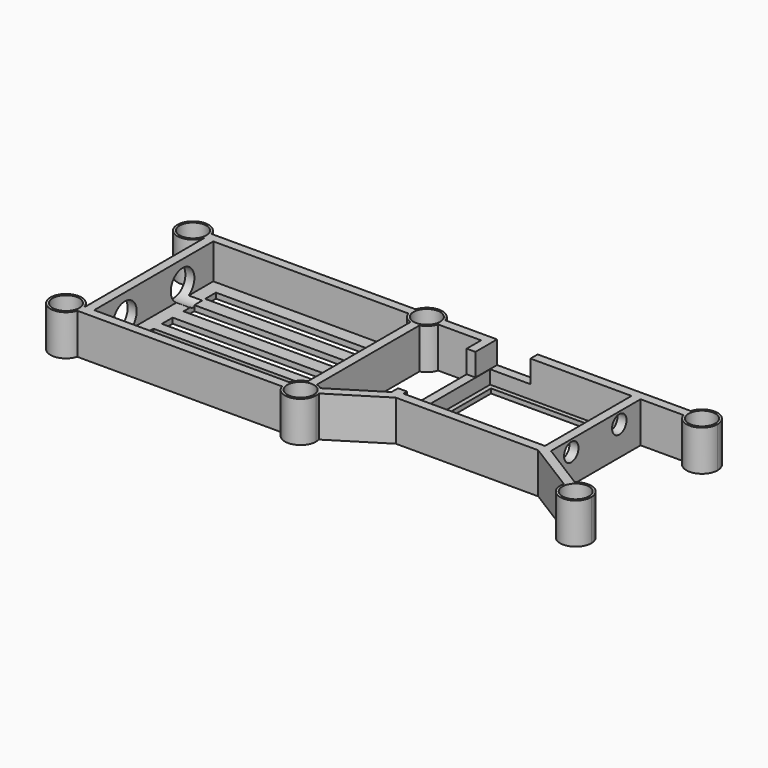
from build123d import *

# Parameters (mm, degrees)
F0_W      = 31.35
F0_H      = 24
F0_W_2    = 2
F0_H_2    = 33
F0_R      = 2.95
F0_R_2    = 1.5
F1_DEPTH  = 9
F2_DEPTH  = 1
F3_W      = 29.35
F3_H      = 22
F4_DEPTH  = 25
F5_DEPTH  = 1.2
F6_W      = 39.55
F6_H      = 3
F7_DEPTH  = 25
F8_R      = 2
F9_DEPTH  = 4
F10_R     = 3.275
F11_DEPTH = 5
F12_DEPTH = 4
F13_DEPTH = 9
F14_R     = 2.95
F15_DEPTH = 8
F16_DEPTH = 25
F17_DEPTH = 25
F18_DEPTH = 25
F19_DEPTH = 25
F20_DEPTH = 25
F21_W     = 9
F21_H     = 5
F22_DEPTH = 25
F23_W     = 19
F23_H     = 5
F24_DEPTH = 3


with BuildPart() as f1:
    # F0 (on Top) → F1 (new body)
    with BuildSketch(Plane.XY):
        Polygon((46.9285540462, 21.1954970509), (11.5785540462, 21.1954970509), (11.5785540462, 19.1954970509), (11.5785540462, -5.625900565), (11.5785540462, -6.8045029491), (13.4680009932, -6.8045029491), (45.0391070991, -6.8045029491), (46.9285540462, -6.8045029491), (46.9285540462, -5.625900565), (46.9285540462, 19.1954970509), align=None)
        with Locations((29.2535540462, 7.1954970509)):
            Rectangle(F0_W, F0_H, mode=Mode.SUBTRACT)
        with BuildLine():
            Line((-4.5483393501, -13.8045029491), (-47.7964459538, -13.8045029491))
            Line((-47.7964459538, -13.8045029491), (-49.7964459538, -13.8045029491))
            Line((-49.7964459538, -13.8045029491), (-49.9445525576, -13.8045029491))
            ThreePointArc((-49.9445525576, -13.8045029491), (-49.833673458, -14.2990488053), (-49.7964459538, -14.8045029491))
            ThreePointArc((-49.7964459538, -14.8045029491), (-49.833673458, -15.309957093), (-49.9445525576, -15.8045029491))
            Line((-49.9445525576, -15.8045029491), (-4.5483393501, -15.8045029491))
            ThreePointArc((-4.5483393501, -15.8045029491), (-4.6964459538, -14.8045029491), (-4.5483393501, -13.8045029491))
        make_face()
        with BuildLine():
            ThreePointArc((-4.5483393501, 19.1954970509), (-4.6964459538, 20.1954970509), (-4.5483393501, 21.1954970509))
            Line((-4.5483393501, 21.1954970509), (-49.7964459538, 21.1954970509))
            ThreePointArc((-49.7964459538, 21.1954970509), (-49.6855668542, 20.7009511947), (-49.6483393501, 20.1954970509))
            ThreePointArc((-49.6483393501, 20.1954970509), (-49.6855668542, 19.690042907), (-49.7964459538, 19.1954970509))
            Line((-49.7964459538, 19.1954970509), (-47.7964459538, 19.1954970509))
            Line((-47.7964459538, 19.1954970509), (-4.5483393501, 19.1954970509))
        make_face()
        with Locations((-48.7964459538, 2.6954970509)):
            Rectangle(F0_W_2, F0_H_2)
        with BuildLine():
            Line((-0.2464459538, -11.5026095529), (-0.2464459538, 16.8936036547))
            ThreePointArc((-0.2464459538, 16.8936036547), (-1.2464459538, 16.7454970509), (-2.2464459538, 16.8936036547))
            Line((-2.2464459538, 16.8936036547), (-2.2464459538, -11.5026095529))
            ThreePointArc((-2.2464459538, -11.5026095529), (-1.2464459538, -11.3545029491), (-0.2464459538, -11.5026095529))
        make_face()
        with BuildLine():
            ThreePointArc((63.2035540462, 20.1954970509), (60.25900819, 23.6082695467), (56.4516606499, 21.1954970509))
            ThreePointArc((56.4516606499, 21.1954970509), (56.3035540462, 20.1954970509), (56.4516606499, 19.1954970509))
            ThreePointArc((56.4516606499, 19.1954970509), (60.25900819, 16.782724555), (63.2035540462, 20.1954970509))
        make_face()
        with Locations((59.7535540462, 20.1954970509)):
            Circle(F0_R, mode=Mode.SUBTRACT)
        with BuildLine():
            ThreePointArc((63.2035540462, -14.8045029491), (61.1788860259, -11.6626995263), (57.4812765114, -12.2084954751))
            ThreePointArc((57.4812765114, -12.2084954751), (56.8263582026, -12.9785718186), (56.4227657111, -13.9054206018))
            ThreePointArc((56.4227657111, -13.9054206018), (59.3000784436, -18.2245701821), (63.2035540462, -14.8045029491))
        make_face()
        with Locations((59.7535540462, -14.8045029491)):
            Circle(F0_R, mode=Mode.SUBTRACT)
        with Locations((59.7535540462, 20.1954970509)):
            Circle(F0_R)
        with Locations((59.7535540462, 20.1954970509)):
            Circle(F0_R_2, mode=Mode.SUBTRACT)
        with Locations((59.7535540462, -14.8045029491)):
            Circle(F0_R)
        with Locations((59.7535540462, -14.8045029491)):
            Circle(F0_R_2, mode=Mode.SUBTRACT)
        with BuildLine():
            Line((11.5785540462, -5.625900565), (1.0258315809, -12.2084954751))
            ThreePointArc((1.0258315809, -12.2084954751), (1.6807498897, -12.9785718186), (2.0843423812, -13.9054206018))
            Line((2.0843423812, -13.9054206018), (13.4680009932, -6.8045029491))
            Line((13.4680009932, -6.8045029491), (11.5785540462, -6.8045029491))
            Line((11.5785540462, -6.8045029491), (11.5785540462, -5.625900565))
        make_face()
        with BuildLine():
            Line((57.4812765114, -12.2084954751), (46.9285540462, -5.625900565))
            Line((46.9285540462, -5.625900565), (46.9285540462, -6.8045029491))
            Line((46.9285540462, -6.8045029491), (45.0391070991, -6.8045029491))
            Line((45.0391070991, -6.8045029491), (56.4227657111, -13.9054206018))
            ThreePointArc((56.4227657111, -13.9054206018), (56.8263582026, -12.9785718186), (57.4812765114, -12.2084954751))
        make_face()
        with BuildLine():
            Line((11.5785540462, 21.1954970509), (2.0554474424, 21.1954970509))
            ThreePointArc((2.0554474424, 21.1954970509), (2.166326542, 20.7009511947), (2.2035540462, 20.1954970509))
            ThreePointArc((2.2035540462, 20.1954970509), (2.166326542, 19.690042907), (2.0554474424, 19.1954970509))
            Line((2.0554474424, 19.1954970509), (11.5785540462, 19.1954970509))
            Line((11.5785540462, 19.1954970509), (11.5785540462, 21.1954970509))
        make_face()
        with BuildLine():
            Line((56.4516606499, 21.1954970509), (46.9285540462, 21.1954970509))
            Line((46.9285540462, 21.1954970509), (46.9285540462, 19.1954970509))
            Line((46.9285540462, 19.1954970509), (56.4516606499, 19.1954970509))
            ThreePointArc((56.4516606499, 19.1954970509), (56.3035540462, 20.1954970509), (56.4516606499, 21.1954970509))
        make_face()
        with BuildLine():
            Line((-51.9803053613, 21.1954970509), (-50.3230015328, 21.1954970509))
            ThreePointArc((-50.3230015328, 21.1954970509), (-56.0483393501, 20.1954970509), (-50.3230015328, 19.1954970509))
            Line((-50.3230015328, 19.1954970509), (-51.9803053613, 19.1954970509))
            ThreePointArc((-51.9803053613, 19.1954970509), (-54.0983393501, 19.0774630621), (-54.2163733388, 21.1954970509))
            ThreePointArc((-54.2163733388, 21.1954970509), (-53.0983393501, 21.6954970509), (-51.9803053613, 21.1954970509))
        make_face()
        with BuildLine():
            Line((-52.1284119651, -13.8045029491), (-50.4711081366, -13.8045029491))
            ThreePointArc((-50.4711081366, -13.8045029491), (-56.1964459538, -14.8045029491), (-50.4711081366, -15.8045029491))
            Line((-50.4711081366, -15.8045029491), (-52.1284119651, -15.8045029491))
            ThreePointArc((-52.1284119651, -15.8045029491), (-54.7464459538, -14.8045029491), (-52.1284119651, -13.8045029491))
        make_face()
        with BuildLine():
            ThreePointArc((1.7035540462, -14.8045029491), (1.1673166691, -13.1085518885), (-0.2464459538, -12.0291651318))
            Line((-0.2464459538, -12.0291651318), (-0.2464459538, -13.6864689604))
            ThreePointArc((-0.2464459538, -13.6864689604), (0.1228604399, -14.1921305134), (0.2535540462, -14.8045029491))
            ThreePointArc((0.2535540462, -14.8045029491), (-0.7112128192, -16.2057614876), (-2.3644799426, -15.8045029491))
            Line((-2.3644799426, -15.8045029491), (-4.0217837711, -15.8045029491))
            ThreePointArc((-4.0217837711, -15.8045029491), (-0.7388765305, -17.7105093635), (1.7035540462, -14.8045029491))
        make_face()
        with BuildLine():
            ThreePointArc((-2.3644799426, 21.1954970509), (-0.7112128192, 21.5967555893), (0.2535540462, 20.1954970509))
            ThreePointArc((0.2535540462, 20.1954970509), (0.1228604399, 19.5831246152), (-0.2464459538, 19.0774630621))
            Line((-0.2464459538, 19.0774630621), (-0.2464459538, 17.4201592336))
            ThreePointArc((-0.2464459538, 17.4201592336), (1.1673166691, 18.4995459903), (1.7035540462, 20.1954970509))
            ThreePointArc((1.7035540462, 20.1954970509), (-0.7388765305, 23.1015034653), (-4.0217837711, 21.1954970509))
            Line((-4.0217837711, 21.1954970509), (-2.3644799426, 21.1954970509))
        make_face()
        with BuildLine():
            Line((-50.3230015328, 21.1954970509), (-49.7964459538, 21.1954970509))
            ThreePointArc((-49.7964459538, 21.1954970509), (-56.5483393501, 20.1954970509), (-49.7964459538, 19.1954970509))
            Line((-49.7964459538, 19.1954970509), (-50.3230015328, 19.1954970509))
            ThreePointArc((-50.3230015328, 19.1954970509), (-56.0483393501, 20.1954970509), (-50.3230015328, 21.1954970509))
        make_face()
        with BuildLine():
            Line((-50.4711081366, -13.8045029491), (-49.9445525576, -13.8045029491))
            ThreePointArc((-49.9445525576, -13.8045029491), (-56.6964459538, -14.8045029491), (-49.9445525576, -15.8045029491))
            Line((-49.9445525576, -15.8045029491), (-50.4711081366, -15.8045029491))
            ThreePointArc((-50.4711081366, -15.8045029491), (-56.1964459538, -14.8045029491), (-50.4711081366, -13.8045029491))
        make_face()
        with Locations((59.7535540462, -14.8045029491)):
            Circle(F0_R_2)
        with Locations((59.7535540462, 20.1954970509)):
            Circle(F0_R_2)
        with BuildLine():
            ThreePointArc((-51.7464459538, -14.8045029491), (-51.8451874154, -14.2692698145), (-52.1284119651, -13.8045029491))
            ThreePointArc((-52.1284119651, -13.8045029491), (-54.7464459538, -14.8045029491), (-52.1284119651, -15.8045029491))
            ThreePointArc((-52.1284119651, -15.8045029491), (-51.8451874154, -15.3397360838), (-51.7464459538, -14.8045029491))
        make_face()
        with BuildLine():
            ThreePointArc((1.0258315809, -12.2084954751), (0.427327866, -11.7877196954), (-0.2464459538, -11.5026095529))
            Line((-0.2464459538, -11.5026095529), (-0.2464459538, -12.0291651318))
            ThreePointArc((-0.2464459538, -12.0291651318), (1.1673166691, -13.1085518885), (1.7035540462, -14.8045029491))
            ThreePointArc((1.7035540462, -14.8045029491), (-0.7388765305, -17.7105093635), (-4.0217837711, -15.8045029491))
            Line((-4.0217837711, -15.8045029491), (-4.5483393501, -15.8045029491))
            ThreePointArc((-4.5483393501, -15.8045029491), (-0.74099181, -18.217275445), (2.2035540462, -14.8045029491))
            ThreePointArc((2.2035540462, -14.8045029491), (2.1736212791, -14.3510273466), (2.0843423812, -13.9054206018))
            ThreePointArc((2.0843423812, -13.9054206018), (1.6807498897, -12.9785718186), (1.0258315809, -12.2084954751))
        make_face()
        with BuildLine():
            Line((-4.5483393501, 21.1954970509), (-4.0217837711, 21.1954970509))
            ThreePointArc((-4.0217837711, 21.1954970509), (-0.7388765305, 23.1015034653), (1.7035540462, 20.1954970509))
            ThreePointArc((1.7035540462, 20.1954970509), (1.1673166691, 18.4995459903), (-0.2464459538, 17.4201592336))
            Line((-0.2464459538, 17.4201592336), (-0.2464459538, 16.8936036547))
            ThreePointArc((-0.2464459538, 16.8936036547), (1.1930724412, 17.7559786558), (2.0554474424, 19.1954970509))
            ThreePointArc((2.0554474424, 19.1954970509), (2.166326542, 19.690042907), (2.2035540462, 20.1954970509))
            ThreePointArc((2.2035540462, 20.1954970509), (2.166326542, 20.7009511947), (2.0554474424, 21.1954970509))
            ThreePointArc((2.0554474424, 21.1954970509), (-1.2464459538, 23.6454970509), (-4.5483393501, 21.1954970509))
        make_face()
        with BuildLine():
            ThreePointArc((-51.5983393501, 20.1954970509), (-51.6970808116, 20.7307301855), (-51.9803053613, 21.1954970509))
            Line((-51.9803053613, 21.1954970509), (-54.2163733388, 21.1954970509))
            ThreePointArc((-54.2163733388, 21.1954970509), (-54.0983393501, 19.0774630621), (-51.9803053613, 19.1954970509))
            ThreePointArc((-51.9803053613, 19.1954970509), (-51.6970808116, 19.6602639162), (-51.5983393501, 20.1954970509))
        make_face()
        with BuildLine():
            Line((-0.2464459538, -15.8045029491), (-0.2464459538, -13.6864689604))
            ThreePointArc((-0.2464459538, -13.6864689604), (-1.2464459538, -13.3045029491), (-2.2464459538, -13.6864689604))
            ThreePointArc((-2.2464459538, -13.6864689604), (-2.3071061256, -13.7438427773), (-2.3644799426, -13.8045029491))
            ThreePointArc((-2.3644799426, -13.8045029491), (-2.7464459538, -14.8045029491), (-2.3644799426, -15.8045029491))
            Line((-2.3644799426, -15.8045029491), (-0.2464459538, -15.8045029491))
        make_face()
        with BuildLine():
            Line((-0.2464459538, 21.1954970509), (-2.3644799426, 21.1954970509))
            ThreePointArc((-2.3644799426, 21.1954970509), (-2.7464459538, 20.1954970509), (-2.3644799426, 19.1954970509))
            Line((-2.3644799426, 19.1954970509), (-2.2464459538, 19.1954970509))
            Line((-2.2464459538, 19.1954970509), (-2.2464459538, 19.0774630621))
            ThreePointArc((-2.2464459538, 19.0774630621), (-1.2464459538, 18.6954970509), (-0.2464459538, 19.0774630621))
            Line((-0.2464459538, 19.0774630621), (-0.2464459538, 21.1954970509))
        make_face()
        with BuildLine():
            ThreePointArc((-50.1483393501, 20.1954970509), (-50.1923329357, 20.7030664742), (-50.3230015328, 21.1954970509))
            Line((-50.3230015328, 21.1954970509), (-51.9803053613, 21.1954970509))
            ThreePointArc((-51.9803053613, 21.1954970509), (-51.6970808116, 20.7307301855), (-51.5983393501, 20.1954970509))
            ThreePointArc((-51.5983393501, 20.1954970509), (-51.6970808116, 19.6602639162), (-51.9803053613, 19.1954970509))
            Line((-51.9803053613, 19.1954970509), (-50.3230015328, 19.1954970509))
            ThreePointArc((-50.3230015328, 19.1954970509), (-50.1923329357, 19.6879276275), (-50.1483393501, 20.1954970509))
        make_face()
        with BuildLine():
            ThreePointArc((-50.2964459538, -14.8045029491), (-50.3404395395, -14.2969335258), (-50.4711081366, -13.8045029491))
            Line((-50.4711081366, -13.8045029491), (-52.1284119651, -13.8045029491))
            ThreePointArc((-52.1284119651, -13.8045029491), (-51.8451874154, -14.2692698145), (-51.7464459538, -14.8045029491))
            ThreePointArc((-51.7464459538, -14.8045029491), (-51.8451874154, -15.3397360838), (-52.1284119651, -15.8045029491))
            Line((-52.1284119651, -15.8045029491), (-50.4711081366, -15.8045029491))
            ThreePointArc((-50.4711081366, -15.8045029491), (-50.3404395395, -15.3120723725), (-50.2964459538, -14.8045029491))
        make_face()
        with BuildLine():
            Line((-0.2464459538, -13.6864689604), (-0.2464459538, -12.0291651318))
            ThreePointArc((-0.2464459538, -12.0291651318), (-1.2464459538, -11.8545029491), (-2.2464459538, -12.0291651318))
            Line((-2.2464459538, -12.0291651318), (-2.2464459538, -13.6864689604))
            ThreePointArc((-2.2464459538, -13.6864689604), (-1.2464459538, -13.3045029491), (-0.2464459538, -13.6864689604))
        make_face()
        with BuildLine():
            Line((-2.3644799426, -13.8045029491), (-4.0217837711, -13.8045029491))
            ThreePointArc((-4.0217837711, -13.8045029491), (-4.1964459538, -14.8045029491), (-4.0217837711, -15.8045029491))
            Line((-4.0217837711, -15.8045029491), (-2.3644799426, -15.8045029491))
            ThreePointArc((-2.3644799426, -15.8045029491), (-2.7464459538, -14.8045029491), (-2.3644799426, -13.8045029491))
        make_face()
        with BuildLine():
            ThreePointArc((-2.3644799426, 19.1954970509), (-2.7464459538, 20.1954970509), (-2.3644799426, 21.1954970509))
            Line((-2.3644799426, 21.1954970509), (-4.0217837711, 21.1954970509))
            ThreePointArc((-4.0217837711, 21.1954970509), (-4.1964459538, 20.1954970509), (-4.0217837711, 19.1954970509))
            Line((-4.0217837711, 19.1954970509), (-2.3644799426, 19.1954970509))
        make_face()
        with BuildLine():
            Line((-0.2464459538, 17.4201592336), (-0.2464459538, 19.0774630621))
            ThreePointArc((-0.2464459538, 19.0774630621), (-1.2464459538, 18.6954970509), (-2.2464459538, 19.0774630621))
            Line((-2.2464459538, 19.0774630621), (-2.2464459538, 17.4201592336))
            ThreePointArc((-2.2464459538, 17.4201592336), (-1.2464459538, 17.2454970509), (-0.2464459538, 17.4201592336))
        make_face()
        with BuildLine():
            Line((-2.2464459538, -13.6864689604), (-2.2464459538, -12.0291651318))
            ThreePointArc((-2.2464459538, -12.0291651318), (-3.3324109583, -12.7185379446), (-4.0217837711, -13.8045029491))
            Line((-4.0217837711, -13.8045029491), (-2.3644799426, -13.8045029491))
            ThreePointArc((-2.3644799426, -13.8045029491), (-2.3071061256, -13.7438427773), (-2.2464459538, -13.6864689604))
        make_face()
        with BuildLine():
            ThreePointArc((-2.2464459538, 19.0774630621), (-2.3071061256, 19.1348368791), (-2.3644799426, 19.1954970509))
            Line((-2.3644799426, 19.1954970509), (-4.0217837711, 19.1954970509))
            ThreePointArc((-4.0217837711, 19.1954970509), (-3.3324109583, 18.1095320464), (-2.2464459538, 17.4201592336))
            Line((-2.2464459538, 17.4201592336), (-2.2464459538, 19.0774630621))
        make_face()
        with BuildLine():
            ThreePointArc((0.2535540462, -14.8045029491), (0.1228604399, -14.1921305134), (-0.2464459538, -13.6864689604))
            Line((-0.2464459538, -13.6864689604), (-0.2464459538, -15.8045029491))
            Line((-0.2464459538, -15.8045029491), (-2.3644799426, -15.8045029491))
            ThreePointArc((-2.3644799426, -15.8045029491), (-0.7112128192, -16.2057614876), (0.2535540462, -14.8045029491))
        make_face()
        with BuildLine():
            ThreePointArc((-0.2464459538, 19.0774630621), (0.1228604399, 19.5831246152), (0.2535540462, 20.1954970509))
            ThreePointArc((0.2535540462, 20.1954970509), (-0.7112128192, 21.5967555893), (-2.3644799426, 21.1954970509))
            Line((-2.3644799426, 21.1954970509), (-0.2464459538, 21.1954970509))
            Line((-0.2464459538, 21.1954970509), (-0.2464459538, 19.0774630621))
        make_face()
        with BuildLine():
            Line((-2.2464459538, -12.0291651318), (-2.2464459538, -11.5026095529))
            ThreePointArc((-2.2464459538, -11.5026095529), (-3.6859643489, -12.364984554), (-4.5483393501, -13.8045029491))
            Line((-4.5483393501, -13.8045029491), (-4.0217837711, -13.8045029491))
            ThreePointArc((-4.0217837711, -13.8045029491), (-3.3324109583, -12.7185379446), (-2.2464459538, -12.0291651318))
        make_face()
        with BuildLine():
            ThreePointArc((-2.2464459538, 17.4201592336), (-3.3324109583, 18.1095320464), (-4.0217837711, 19.1954970509))
            Line((-4.0217837711, 19.1954970509), (-4.5483393501, 19.1954970509))
            ThreePointArc((-4.5483393501, 19.1954970509), (-3.6859643489, 17.7559786558), (-2.2464459538, 16.8936036547))
            Line((-2.2464459538, 16.8936036547), (-2.2464459538, 17.4201592336))
        make_face()
        with BuildLine():
            ThreePointArc((-49.6483393501, 20.1954970509), (-49.6855668542, 20.7009511947), (-49.7964459538, 21.1954970509))
            Line((-49.7964459538, 21.1954970509), (-50.3230015328, 21.1954970509))
            ThreePointArc((-50.3230015328, 21.1954970509), (-50.1923329357, 20.7030664742), (-50.1483393501, 20.1954970509))
            ThreePointArc((-50.1483393501, 20.1954970509), (-50.1923329357, 19.6879276275), (-50.3230015328, 19.1954970509))
            Line((-50.3230015328, 19.1954970509), (-49.7964459538, 19.1954970509))
            ThreePointArc((-49.7964459538, 19.1954970509), (-49.6855668542, 19.690042907), (-49.6483393501, 20.1954970509))
        make_face()
        with BuildLine():
            ThreePointArc((-49.7964459538, -14.8045029491), (-49.833673458, -14.2990488053), (-49.9445525576, -13.8045029491))
            Line((-49.9445525576, -13.8045029491), (-50.4711081366, -13.8045029491))
            ThreePointArc((-50.4711081366, -13.8045029491), (-50.3404395395, -14.2969335258), (-50.2964459538, -14.8045029491))
            ThreePointArc((-50.2964459538, -14.8045029491), (-50.3404395395, -15.3120723725), (-50.4711081366, -15.8045029491))
            Line((-50.4711081366, -15.8045029491), (-49.9445525576, -15.8045029491))
            ThreePointArc((-49.9445525576, -15.8045029491), (-49.833673458, -15.309957093), (-49.7964459538, -14.8045029491))
        make_face()
        with BuildLine():
            Line((-0.2464459538, -12.0291651318), (-0.2464459538, -11.5026095529))
            ThreePointArc((-0.2464459538, -11.5026095529), (-1.2464459538, -11.3545029491), (-2.2464459538, -11.5026095529))
            Line((-2.2464459538, -11.5026095529), (-2.2464459538, -12.0291651318))
            ThreePointArc((-2.2464459538, -12.0291651318), (-1.2464459538, -11.8545029491), (-0.2464459538, -12.0291651318))
        make_face()
        with BuildLine():
            Line((-4.0217837711, -13.8045029491), (-4.5483393501, -13.8045029491))
            ThreePointArc((-4.5483393501, -13.8045029491), (-4.6964459538, -14.8045029491), (-4.5483393501, -15.8045029491))
            Line((-4.5483393501, -15.8045029491), (-4.0217837711, -15.8045029491))
            ThreePointArc((-4.0217837711, -15.8045029491), (-4.1964459538, -14.8045029491), (-4.0217837711, -13.8045029491))
        make_face()
        with BuildLine():
            ThreePointArc((-4.0217837711, 19.1954970509), (-4.1964459538, 20.1954970509), (-4.0217837711, 21.1954970509))
            Line((-4.0217837711, 21.1954970509), (-4.5483393501, 21.1954970509))
            ThreePointArc((-4.5483393501, 21.1954970509), (-4.6964459538, 20.1954970509), (-4.5483393501, 19.1954970509))
            Line((-4.5483393501, 19.1954970509), (-4.0217837711, 19.1954970509))
        make_face()
        with BuildLine():
            Line((-0.2464459538, 16.8936036547), (-0.2464459538, 17.4201592336))
            ThreePointArc((-0.2464459538, 17.4201592336), (-1.2464459538, 17.2454970509), (-2.2464459538, 17.4201592336))
            Line((-2.2464459538, 17.4201592336), (-2.2464459538, 16.8936036547))
            ThreePointArc((-2.2464459538, 16.8936036547), (-1.2464459538, 16.7454970509), (-0.2464459538, 16.8936036547))
        make_face()
        with BuildLine():
            Line((-54.2163733388, 21.1954970509), (-51.9803053613, 21.1954970509))
            ThreePointArc((-51.9803053613, 21.1954970509), (-53.0983393501, 21.6954970509), (-54.2163733388, 21.1954970509))
        make_face()
        with BuildLine():
            Line((-2.2464459538, 19.1954970509), (-2.3644799426, 19.1954970509))
            ThreePointArc((-2.3644799426, 19.1954970509), (-2.3071061256, 19.1348368791), (-2.2464459538, 19.0774630621))
            Line((-2.2464459538, 19.0774630621), (-2.2464459538, 19.1954970509))
        make_face()
    extrude(amount=F1_DEPTH)

    # F0 (on Top) → F2 (join)
    with BuildSketch(Plane.XY):
        with Locations((29.2535540462, 7.1954970509)):
            Rectangle(F0_W, F0_H)
    extrude(amount=F2_DEPTH)

    # F3 (on face) → F4 (cut)
    with BuildSketch(Plane.XY.offset(1)):
        with Locations((29.2535540462, 7.1954970509)):
            Rectangle(F3_W, F3_H)
    extrude(amount=-F4_DEPTH, mode=Mode.SUBTRACT)

    # F0 (on Top) → F5 (join)
    with BuildSketch(Plane.XY):
        with BuildLine():
            ThreePointArc((-2.2464459538, 16.8936036547), (-3.6859643489, 17.7559786558), (-4.5483393501, 19.1954970509))
            Line((-4.5483393501, 19.1954970509), (-47.7964459538, 19.1954970509))
            Line((-47.7964459538, 19.1954970509), (-47.7964459538, -13.8045029491))
            Line((-47.7964459538, -13.8045029491), (-4.5483393501, -13.8045029491))
            ThreePointArc((-4.5483393501, -13.8045029491), (-3.6859643489, -12.364984554), (-2.2464459538, -11.5026095529))
            Line((-2.2464459538, -11.5026095529), (-2.2464459538, 16.8936036547))
        make_face()
    extrude(amount=F5_DEPTH)

    # F6 (on face) → F7 (cut)
    with BuildSketch(Plane.XY.offset(1.2)):
        with Locations((-25.0214459538, 14.6954970509)):
            Rectangle(F6_W, F6_H)
        with Locations((-25.0214459538, 8.6954970509)):
            Rectangle(F6_W, F6_H)
        with Locations((-25.0214459538, 2.6954970509)):
            Rectangle(F6_W, F6_H)
        with Locations((-25.0214459538, -2.6224407554)):
            Rectangle(F6_W, F6_H)
        with Locations((-25.0214459538, -8.6224407554)):
            Rectangle(F6_W, F6_H)
    extrude(amount=-F7_DEPTH, mode=Mode.SUBTRACT)

    # F8 (on face) → F9 (cut)
    with BuildSketch(Plane.YZ.offset(46.9285540462)):
        with Locations((13.2954970509, 6.5)):
            Circle(F8_R)
        with Locations((0, 6.5)):
            Circle(F8_R)
    extrude(amount=-F9_DEPTH, mode=Mode.SUBTRACT)

    # F10 (on face) → F11 (cut)
    with BuildSketch(Plane(origin=(-49.7964459538, 0, 0), x_dir=(0, -1, 0), z_dir=(-1, 0, 0))):
        with Locations((-10.6954970509, 4)):
            Circle(F10_R)
        with Locations((5.3045029491, 4)):
            Circle(F10_R)
    extrude(amount=-F11_DEPTH, mode=Mode.SUBTRACT)

    # F10 (on face) → F12 (cut)
    with BuildSketch(Plane(origin=(-49.7964459538, 0, 0), x_dir=(0, -1, 0), z_dir=(-1, 0, 0))):
        with Locations((-10.6954970509, 4)):
            Circle(F10_R)
        with Locations((5.3045029491, 4)):
            Circle(F10_R)
    extrude(amount=-F12_DEPTH, mode=Mode.SUBTRACT)

    # F0 (on Top) → F13 (cut)
    with BuildSketch(Plane.XY):
        with BuildLine():
            Line((-51.9803053613, 21.1954970509), (-50.3230015328, 21.1954970509))
            ThreePointArc((-50.3230015328, 21.1954970509), (-56.0483393501, 20.1954970509), (-50.3230015328, 19.1954970509))
            Line((-50.3230015328, 19.1954970509), (-51.9803053613, 19.1954970509))
            ThreePointArc((-51.9803053613, 19.1954970509), (-54.0983393501, 19.0774630621), (-54.2163733388, 21.1954970509))
            ThreePointArc((-54.2163733388, 21.1954970509), (-53.0983393501, 21.6954970509), (-51.9803053613, 21.1954970509))
        make_face()
        with BuildLine():
            ThreePointArc((-51.5983393501, 20.1954970509), (-51.6970808116, 20.7307301855), (-51.9803053613, 21.1954970509))
            Line((-51.9803053613, 21.1954970509), (-54.2163733388, 21.1954970509))
            ThreePointArc((-54.2163733388, 21.1954970509), (-54.0983393501, 19.0774630621), (-51.9803053613, 19.1954970509))
            ThreePointArc((-51.9803053613, 19.1954970509), (-51.6970808116, 19.6602639162), (-51.5983393501, 20.1954970509))
        make_face()
        with BuildLine():
            ThreePointArc((-50.1483393501, 20.1954970509), (-50.1923329357, 20.7030664742), (-50.3230015328, 21.1954970509))
            Line((-50.3230015328, 21.1954970509), (-51.9803053613, 21.1954970509))
            ThreePointArc((-51.9803053613, 21.1954970509), (-51.6970808116, 20.7307301855), (-51.5983393501, 20.1954970509))
            ThreePointArc((-51.5983393501, 20.1954970509), (-51.6970808116, 19.6602639162), (-51.9803053613, 19.1954970509))
            Line((-51.9803053613, 19.1954970509), (-50.3230015328, 19.1954970509))
            ThreePointArc((-50.3230015328, 19.1954970509), (-50.1923329357, 19.6879276275), (-50.1483393501, 20.1954970509))
        make_face()
        with BuildLine():
            Line((-54.2163733388, 21.1954970509), (-51.9803053613, 21.1954970509))
            ThreePointArc((-51.9803053613, 21.1954970509), (-53.0983393501, 21.6954970509), (-54.2163733388, 21.1954970509))
        make_face()
        with BuildLine():
            Line((-52.1284119651, -13.8045029491), (-50.4711081366, -13.8045029491))
            ThreePointArc((-50.4711081366, -13.8045029491), (-56.1964459538, -14.8045029491), (-50.4711081366, -15.8045029491))
            Line((-50.4711081366, -15.8045029491), (-52.1284119651, -15.8045029491))
            ThreePointArc((-52.1284119651, -15.8045029491), (-54.7464459538, -14.8045029491), (-52.1284119651, -13.8045029491))
        make_face()
        with BuildLine():
            ThreePointArc((-51.7464459538, -14.8045029491), (-51.8451874154, -14.2692698145), (-52.1284119651, -13.8045029491))
            ThreePointArc((-52.1284119651, -13.8045029491), (-54.7464459538, -14.8045029491), (-52.1284119651, -15.8045029491))
            ThreePointArc((-52.1284119651, -15.8045029491), (-51.8451874154, -15.3397360838), (-51.7464459538, -14.8045029491))
        make_face()
        with BuildLine():
            ThreePointArc((-50.2964459538, -14.8045029491), (-50.3404395395, -14.2969335258), (-50.4711081366, -13.8045029491))
            Line((-50.4711081366, -13.8045029491), (-52.1284119651, -13.8045029491))
            ThreePointArc((-52.1284119651, -13.8045029491), (-51.8451874154, -14.2692698145), (-51.7464459538, -14.8045029491))
            ThreePointArc((-51.7464459538, -14.8045029491), (-51.8451874154, -15.3397360838), (-52.1284119651, -15.8045029491))
            Line((-52.1284119651, -15.8045029491), (-50.4711081366, -15.8045029491))
            ThreePointArc((-50.4711081366, -15.8045029491), (-50.3404395395, -15.3120723725), (-50.2964459538, -14.8045029491))
        make_face()
        with BuildLine():
            ThreePointArc((1.7035540462, -14.8045029491), (1.1673166691, -13.1085518885), (-0.2464459538, -12.0291651318))
            Line((-0.2464459538, -12.0291651318), (-0.2464459538, -13.6864689604))
            ThreePointArc((-0.2464459538, -13.6864689604), (0.1228604399, -14.1921305134), (0.2535540462, -14.8045029491))
            ThreePointArc((0.2535540462, -14.8045029491), (-0.7112128192, -16.2057614876), (-2.3644799426, -15.8045029491))
            Line((-2.3644799426, -15.8045029491), (-4.0217837711, -15.8045029491))
            ThreePointArc((-4.0217837711, -15.8045029491), (-0.7388765305, -17.7105093635), (1.7035540462, -14.8045029491))
        make_face()
        with BuildLine():
            Line((-0.2464459538, -13.6864689604), (-0.2464459538, -12.0291651318))
            ThreePointArc((-0.2464459538, -12.0291651318), (-1.2464459538, -11.8545029491), (-2.2464459538, -12.0291651318))
            Line((-2.2464459538, -12.0291651318), (-2.2464459538, -13.6864689604))
            ThreePointArc((-2.2464459538, -13.6864689604), (-1.2464459538, -13.3045029491), (-0.2464459538, -13.6864689604))
        make_face()
        with BuildLine():
            Line((-0.2464459538, -15.8045029491), (-0.2464459538, -13.6864689604))
            ThreePointArc((-0.2464459538, -13.6864689604), (-1.2464459538, -13.3045029491), (-2.2464459538, -13.6864689604))
            ThreePointArc((-2.2464459538, -13.6864689604), (-2.3071061256, -13.7438427773), (-2.3644799426, -13.8045029491))
            ThreePointArc((-2.3644799426, -13.8045029491), (-2.7464459538, -14.8045029491), (-2.3644799426, -15.8045029491))
            Line((-2.3644799426, -15.8045029491), (-0.2464459538, -15.8045029491))
        make_face()
        with BuildLine():
            Line((-2.2464459538, -13.6864689604), (-2.2464459538, -12.0291651318))
            ThreePointArc((-2.2464459538, -12.0291651318), (-3.3324109583, -12.7185379446), (-4.0217837711, -13.8045029491))
            Line((-4.0217837711, -13.8045029491), (-2.3644799426, -13.8045029491))
            ThreePointArc((-2.3644799426, -13.8045029491), (-2.3071061256, -13.7438427773), (-2.2464459538, -13.6864689604))
        make_face()
        with BuildLine():
            Line((-2.3644799426, -13.8045029491), (-4.0217837711, -13.8045029491))
            ThreePointArc((-4.0217837711, -13.8045029491), (-4.1964459538, -14.8045029491), (-4.0217837711, -15.8045029491))
            Line((-4.0217837711, -15.8045029491), (-2.3644799426, -15.8045029491))
            ThreePointArc((-2.3644799426, -15.8045029491), (-2.7464459538, -14.8045029491), (-2.3644799426, -13.8045029491))
        make_face()
        with BuildLine():
            ThreePointArc((0.2535540462, -14.8045029491), (0.1228604399, -14.1921305134), (-0.2464459538, -13.6864689604))
            Line((-0.2464459538, -13.6864689604), (-0.2464459538, -15.8045029491))
            Line((-0.2464459538, -15.8045029491), (-2.3644799426, -15.8045029491))
            ThreePointArc((-2.3644799426, -15.8045029491), (-0.7112128192, -16.2057614876), (0.2535540462, -14.8045029491))
        make_face()
        with BuildLine():
            ThreePointArc((-2.3644799426, 21.1954970509), (-0.7112128192, 21.5967555893), (0.2535540462, 20.1954970509))
            ThreePointArc((0.2535540462, 20.1954970509), (0.1228604399, 19.5831246152), (-0.2464459538, 19.0774630621))
            Line((-0.2464459538, 19.0774630621), (-0.2464459538, 17.4201592336))
            ThreePointArc((-0.2464459538, 17.4201592336), (1.1673166691, 18.4995459903), (1.7035540462, 20.1954970509))
            ThreePointArc((1.7035540462, 20.1954970509), (-0.7388765305, 23.1015034653), (-4.0217837711, 21.1954970509))
            Line((-4.0217837711, 21.1954970509), (-2.3644799426, 21.1954970509))
        make_face()
        with BuildLine():
            Line((-0.2464459538, 21.1954970509), (-2.3644799426, 21.1954970509))
            ThreePointArc((-2.3644799426, 21.1954970509), (-2.7464459538, 20.1954970509), (-2.3644799426, 19.1954970509))
            Line((-2.3644799426, 19.1954970509), (-2.2464459538, 19.1954970509))
            Line((-2.2464459538, 19.1954970509), (-2.2464459538, 19.0774630621))
            ThreePointArc((-2.2464459538, 19.0774630621), (-1.2464459538, 18.6954970509), (-0.2464459538, 19.0774630621))
            Line((-0.2464459538, 19.0774630621), (-0.2464459538, 21.1954970509))
        make_face()
        with BuildLine():
            ThreePointArc((-0.2464459538, 19.0774630621), (0.1228604399, 19.5831246152), (0.2535540462, 20.1954970509))
            ThreePointArc((0.2535540462, 20.1954970509), (-0.7112128192, 21.5967555893), (-2.3644799426, 21.1954970509))
            Line((-2.3644799426, 21.1954970509), (-0.2464459538, 21.1954970509))
            Line((-0.2464459538, 21.1954970509), (-0.2464459538, 19.0774630621))
        make_face()
        with BuildLine():
            ThreePointArc((-2.3644799426, 19.1954970509), (-2.7464459538, 20.1954970509), (-2.3644799426, 21.1954970509))
            Line((-2.3644799426, 21.1954970509), (-4.0217837711, 21.1954970509))
            ThreePointArc((-4.0217837711, 21.1954970509), (-4.1964459538, 20.1954970509), (-4.0217837711, 19.1954970509))
            Line((-4.0217837711, 19.1954970509), (-2.3644799426, 19.1954970509))
        make_face()
        with BuildLine():
            Line((-0.2464459538, 17.4201592336), (-0.2464459538, 19.0774630621))
            ThreePointArc((-0.2464459538, 19.0774630621), (-1.2464459538, 18.6954970509), (-2.2464459538, 19.0774630621))
            Line((-2.2464459538, 19.0774630621), (-2.2464459538, 17.4201592336))
            ThreePointArc((-2.2464459538, 17.4201592336), (-1.2464459538, 17.2454970509), (-0.2464459538, 17.4201592336))
        make_face()
        with BuildLine():
            ThreePointArc((-2.2464459538, 19.0774630621), (-2.3071061256, 19.1348368791), (-2.3644799426, 19.1954970509))
            Line((-2.3644799426, 19.1954970509), (-4.0217837711, 19.1954970509))
            ThreePointArc((-4.0217837711, 19.1954970509), (-3.3324109583, 18.1095320464), (-2.2464459538, 17.4201592336))
            Line((-2.2464459538, 17.4201592336), (-2.2464459538, 19.0774630621))
        make_face()
        with Locations((59.7535540462, 20.1954970509)):
            Circle(F0_R)
        with Locations((59.7535540462, 20.1954970509)):
            Circle(F0_R_2, mode=Mode.SUBTRACT)
        with Locations((59.7535540462, 20.1954970509)):
            Circle(F0_R_2)
        with Locations((59.7535540462, -14.8045029491)):
            Circle(F0_R)
        with Locations((59.7535540462, -14.8045029491)):
            Circle(F0_R_2, mode=Mode.SUBTRACT)
        with Locations((59.7535540462, -14.8045029491)):
            Circle(F0_R_2)
    extrude(amount=-F13_DEPTH, mode=Mode.SUBTRACT)

    # F14 (on face) → F15 (cut)
    with BuildSketch(Plane.XY.offset(9)):
        with Locations((-53.2464459538, -14.8045029491)):
            Circle(F14_R)
        with Locations((-1.2464459538, -14.8045029491)):
            Circle(F14_R)
        with Locations((-53.0983393501, 20.1954970509)):
            Circle(F14_R)
        with Locations((-1.2464459538, 20.1954970509)):
            Circle(F14_R)
        with Locations((59.7535540462, 20.1954970509)):
            Circle(F14_R)
        with Locations((59.7535540462, -14.8045029491)):
            Circle(F14_R)
    extrude(amount=-F15_DEPTH, mode=Mode.SUBTRACT)

    # F0 (on Top) → F16 (cut)
    with BuildSketch(Plane.XY):
        with BuildLine():
            ThreePointArc((-51.7464459538, -14.8045029491), (-51.8451874154, -14.2692698145), (-52.1284119651, -13.8045029491))
            ThreePointArc((-52.1284119651, -13.8045029491), (-54.7464459538, -14.8045029491), (-52.1284119651, -15.8045029491))
            ThreePointArc((-52.1284119651, -15.8045029491), (-51.8451874154, -15.3397360838), (-51.7464459538, -14.8045029491))
        make_face()
    extrude(amount=F16_DEPTH, mode=Mode.SUBTRACT)

    # F0 (on Top) → F17 (cut)
    with BuildSketch(Plane.XY):
        with BuildLine():
            ThreePointArc((-51.5983393501, 20.1954970509), (-51.6970808116, 20.7307301855), (-51.9803053613, 21.1954970509))
            Line((-51.9803053613, 21.1954970509), (-54.2163733388, 21.1954970509))
            ThreePointArc((-54.2163733388, 21.1954970509), (-54.0983393501, 19.0774630621), (-51.9803053613, 19.1954970509))
            ThreePointArc((-51.9803053613, 19.1954970509), (-51.6970808116, 19.6602639162), (-51.5983393501, 20.1954970509))
        make_face()
        with BuildLine():
            Line((-54.2163733388, 21.1954970509), (-51.9803053613, 21.1954970509))
            ThreePointArc((-51.9803053613, 21.1954970509), (-53.0983393501, 21.6954970509), (-54.2163733388, 21.1954970509))
        make_face()
    extrude(amount=F17_DEPTH, mode=Mode.SUBTRACT)

    # F0 (on Top) → F18 (cut)
    with BuildSketch(Plane.XY):
        with BuildLine():
            Line((-0.2464459538, 21.1954970509), (-2.3644799426, 21.1954970509))
            ThreePointArc((-2.3644799426, 21.1954970509), (-2.7464459538, 20.1954970509), (-2.3644799426, 19.1954970509))
            Line((-2.3644799426, 19.1954970509), (-2.2464459538, 19.1954970509))
            Line((-2.2464459538, 19.1954970509), (-2.2464459538, 19.0774630621))
            ThreePointArc((-2.2464459538, 19.0774630621), (-1.2464459538, 18.6954970509), (-0.2464459538, 19.0774630621))
            Line((-0.2464459538, 19.0774630621), (-0.2464459538, 21.1954970509))
        make_face()
        with BuildLine():
            ThreePointArc((-0.2464459538, 19.0774630621), (0.1228604399, 19.5831246152), (0.2535540462, 20.1954970509))
            ThreePointArc((0.2535540462, 20.1954970509), (-0.7112128192, 21.5967555893), (-2.3644799426, 21.1954970509))
            Line((-2.3644799426, 21.1954970509), (-0.2464459538, 21.1954970509))
            Line((-0.2464459538, 21.1954970509), (-0.2464459538, 19.0774630621))
        make_face()
        with BuildLine():
            Line((-2.2464459538, 19.1954970509), (-2.3644799426, 19.1954970509))
            ThreePointArc((-2.3644799426, 19.1954970509), (-2.3071061256, 19.1348368791), (-2.2464459538, 19.0774630621))
            Line((-2.2464459538, 19.0774630621), (-2.2464459538, 19.1954970509))
        make_face()
    extrude(amount=F18_DEPTH, mode=Mode.SUBTRACT)

    # F0 (on Top) → F19 (cut)
    with BuildSketch(Plane.XY):
        with BuildLine():
            Line((-0.2464459538, -15.8045029491), (-0.2464459538, -13.6864689604))
            ThreePointArc((-0.2464459538, -13.6864689604), (-1.2464459538, -13.3045029491), (-2.2464459538, -13.6864689604))
            ThreePointArc((-2.2464459538, -13.6864689604), (-2.3071061256, -13.7438427773), (-2.3644799426, -13.8045029491))
            ThreePointArc((-2.3644799426, -13.8045029491), (-2.7464459538, -14.8045029491), (-2.3644799426, -15.8045029491))
            Line((-2.3644799426, -15.8045029491), (-0.2464459538, -15.8045029491))
        make_face()
        with BuildLine():
            ThreePointArc((0.2535540462, -14.8045029491), (0.1228604399, -14.1921305134), (-0.2464459538, -13.6864689604))
            Line((-0.2464459538, -13.6864689604), (-0.2464459538, -15.8045029491))
            Line((-0.2464459538, -15.8045029491), (-2.3644799426, -15.8045029491))
            ThreePointArc((-2.3644799426, -15.8045029491), (-0.7112128192, -16.2057614876), (0.2535540462, -14.8045029491))
        make_face()
    extrude(amount=F19_DEPTH, mode=Mode.SUBTRACT)

    # F0 (on Top) → F20 (cut)
    with BuildSketch(Plane.XY):
        with Locations((59.7535540462, 20.1954970509)):
            Circle(F0_R_2)
        with Locations((59.7535540462, -14.8045029491)):
            Circle(F0_R_2)
    extrude(amount=F20_DEPTH, mode=Mode.SUBTRACT)

    # F21 (on face) → F22 (cut)
    with BuildSketch(Plane(origin=(0, 21.1954970509, 0), x_dir=(-1, 0, 0), z_dir=(0, 1, 0))):
        with Locations((-18.0144475698, 6.5)):
            Rectangle(F21_W, F21_H)
    extrude(amount=-F22_DEPTH, mode=Mode.SUBTRACT)

    # F23 (on face) → F24 (cut)
    with BuildSketch(Plane.YZ.offset(13.5144475698)):
        with Locations((5.6954970509, 6.5)):
            Rectangle(F23_W, F23_H)
    extrude(amount=-F24_DEPTH, mode=Mode.SUBTRACT)


solid = f1.part
